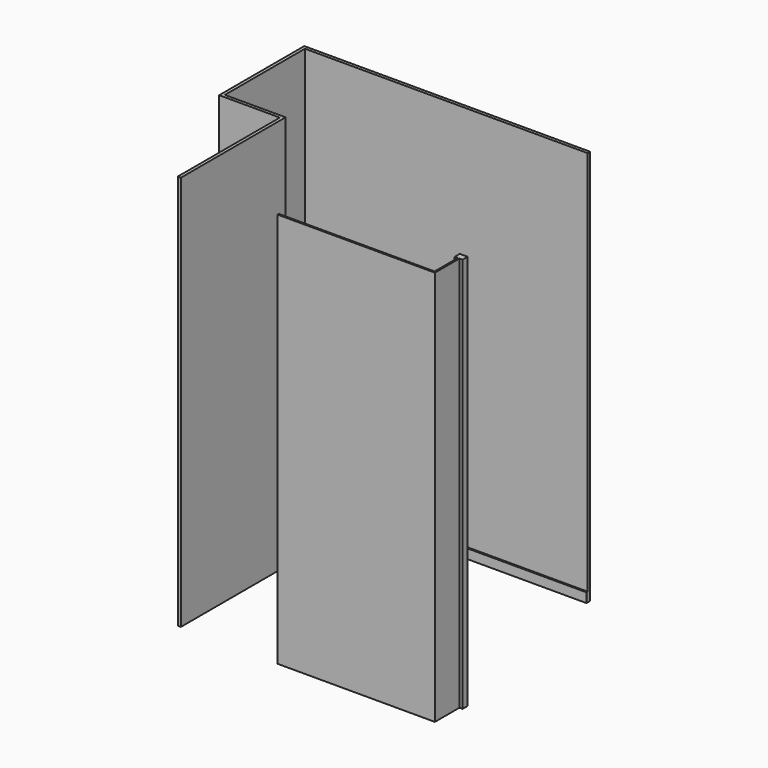
from build123d import *

# Parameters (mm, degrees)
F1_DEPTH = 2510
F3_DEPTH = 60
F5_DEPTH = 2510
F6_W     = 80
F6_H     = 80
F7_DEPTH = 15


with BuildPart() as f1:
    # F0 (on Top) → F1 (new body)
    with BuildSketch(Plane.XY):
        Polygon((-20, 0), (0, 0), (0, 830), (-385, 830), (-385, 1465), (1410, 1465), (1410, 1485), (-405, 1485), (-405, 810), (-20, 810), align=None)
    extrude(amount=F1_DEPTH)


with BuildPart() as f3:
    # F2 (on Top) → F3 (new body)
    with BuildSketch(Plane.XY):
        Polygon((0, 830), (0, 840), (-375, 840), (-375, 1455), (1410, 1455), (1410, 1465), (-385, 1465), (-385, 830), align=None)
    extrude(amount=F3_DEPTH)


with BuildPart() as f5:
    # F4 (on Top) → F5 (new body, through all)
    with BuildSketch(Plane.XY):
        Polygon((1640, 225), (1590, 225), (1590, 185), (1610, 185), (1610, 0), (620, 0), (620, -10), (1620, -10), (1620, 185), (1640, 185), align=None)
    extrude(amount=F5_DEPTH)

    # F6 (on face) → F7 (join)
    with BuildSketch(Plane(origin=(0, 0, 0), x_dir=(-1, 0, 0), z_dir=(0, 1, 0))):
        with Locations((-770, 1060)):
            Rectangle(F6_W, F6_H)
    extrude(amount=F7_DEPTH)


solid = Compound([f1.part, f3.part, f5.part])
